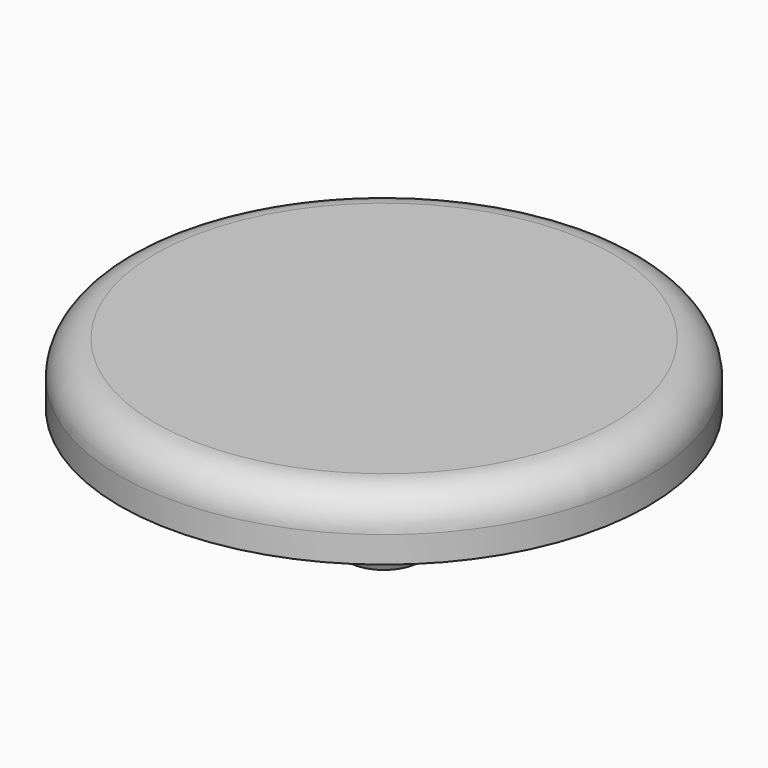
from build123d import *


with BuildPart() as f1:
    # F0 (on Front) → F1 (revolve)
    with BuildSketch(Plane.XZ):
        with BuildLine():
            Line((-15, 0), (-3, 0))
            Line((-3, 0), (-3, -5))
            Line((-3, -5), (-2.067385, -7))
            Line((-2.067385, -7), (0, -7))
            Line((0, -7), (0, 3.5))
            Line((0, 3.5), (-3, 3.5))
            Line((-3, 3.5), (-13, 3.5))
            ThreePointArc((-13, 3.5), (-14.414214, 2.914214), (-15, 1.5))
            Line((-15, 1.5), (-15, 0))
        make_face()
    revolve(axis=Axis((0, 0, 4.554348), (0, 0, 1)))


solid = f1.part
